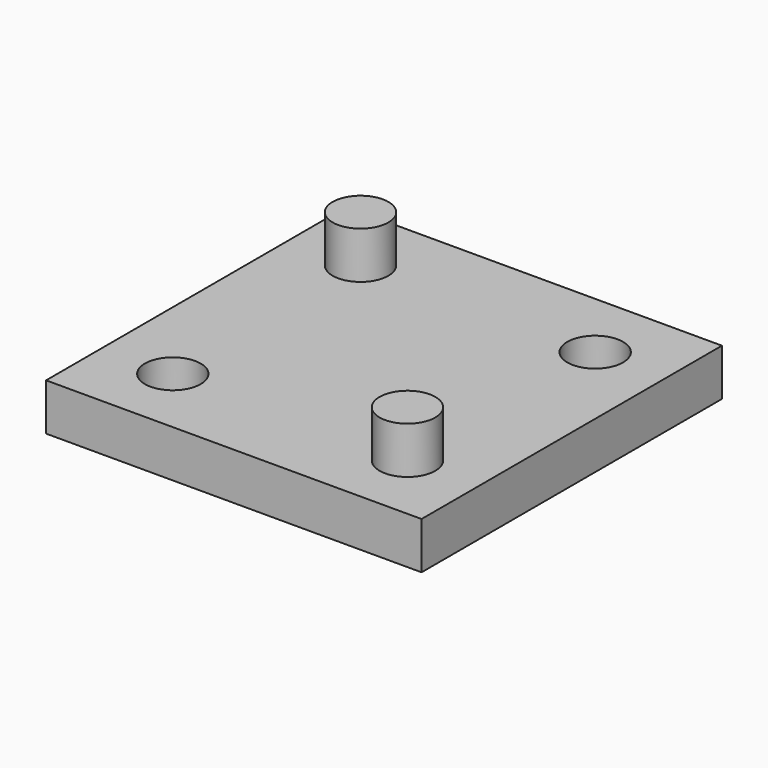
from build123d import *

# Parameters (mm, degrees)
F0_W     = 80
F0_H     = 80
F0_R     = 5.94119
F1_DEPTH = 10
F2_DEPTH = 20


with BuildPart() as f1:
    # F0 (on Top) → F1 (new body)
    with BuildSketch(Plane.XY):
        Rectangle(F0_W, F0_H)
        with Locations((-25, -25)):
            Circle(F0_R, mode=Mode.SUBTRACT)
        with Locations((25, -25)):
            Circle(F0_R, mode=Mode.SUBTRACT)
        with Locations((-25, 25)):
            Circle(F0_R, mode=Mode.SUBTRACT)
        with Locations((25, 25)):
            Circle(F0_R, mode=Mode.SUBTRACT)
    extrude(amount=F1_DEPTH)

    # F0 (on Top) → F2 (join)
    with BuildSketch(Plane.XY):
        with Locations((-25, 25)):
            Circle(F0_R)
        with Locations((25, -25)):
            Circle(F0_R)
    extrude(amount=F2_DEPTH)


solid = f1.part
